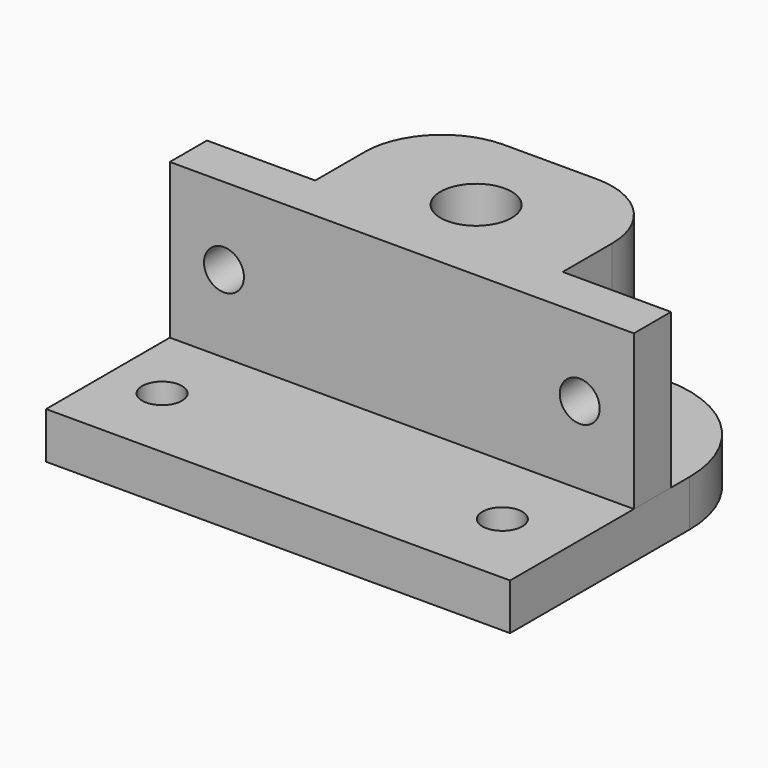
from build123d import *

# Parameters (mm, degrees)
BOX001_W        = 60
BOX001_H        = 24
BOX001_DEPTH    = 20
SKETCH_R        = 4.6
POCKET_DEPTH    = 20.001
SKETCH002_W     = 14
SKETCH002_H     = 20
POCKET002_DEPTH = 18
SKETCH003_R     = 2.58
POCKET003_DEPTH = 6
FILLET_R        = 10
FILLET001_R     = 10
BOX_W           = 60
BOX_H           = 44
BOX_DEPTH       = 6
SKETCH001_R     = 8.1
POCKET001_DEPTH = 9
SKETCH004_R     = 2.58
POCKET004_DEPTH = 6
SKETCH005_R     = 1.54
POCKET005_DEPTH = 5
FILLET002_R     = 15
FILLET003_R     = 15


with BuildPart() as fillet001:
    # Box001 → Box001 (new body)
    with BuildSketch(Plane(origin=(0, 20, 6), x_dir=(1, 0, 0), z_dir=(0, 0, 1))):
        with Locations((30, 12)):
            Rectangle(BOX001_W, BOX001_H)
    extrude(amount=BOX001_DEPTH)

    # Sketch → Pocket (cut, through all)
    with BuildSketch(Plane(origin=(0, 20, 6), x_dir=(1, 0, 0), z_dir=(0, 0, -1))):
        with Locations((30, -12)):
            Circle(SKETCH_R)
    extrude(amount=-POCKET_DEPTH, mode=Mode.SUBTRACT)

    # Sketch002 → Pocket002 (cut)
    with BuildSketch(Plane(origin=(0, 44, 6), x_dir=(-1, 0, 0), z_dir=(0, 1, 0))):
        with Locations((-53, 10)):
            Rectangle(SKETCH002_W, SKETCH002_H)
        with Locations((-7, 10)):
            Rectangle(SKETCH002_W, SKETCH002_H)
    extrude(amount=-POCKET002_DEPTH, mode=Mode.SUBTRACT)

    # Sketch003 → Pocket003 (cut)
    with BuildSketch(Plane(origin=(0, 20, 6), x_dir=(1, 0, 0), z_dir=(0, -1, 0))):
        with Locations((7, 10)):
            Circle(SKETCH003_R)
        with Locations((53, 10)):
            Circle(SKETCH003_R)
    extrude(amount=-POCKET003_DEPTH, mode=Mode.SUBTRACT)

    # Fillet
    fillet_edges = [fillet001.edges().sort_by_distance(p)[0] for p in [
        (14, 44, 16),
    ]]
    fillet(fillet_edges, radius=FILLET_R)

    # Fillet001
    fillet001_edges = [fillet001.edges().sort_by_distance(p)[0] for p in [
        (46, 44, 16),
    ]]
    fillet(fillet001_edges, radius=FILLET001_R)


with BuildPart() as fillet003:
    # Box → Box (new body)
    with BuildSketch(Plane.XY):
        with Locations((30, 22)):
            Rectangle(BOX_W, BOX_H)
    extrude(amount=BOX_DEPTH)

    # Sketch001 → Pocket001 (cut)
    with BuildSketch(Plane(origin=(0, 0, 0), x_dir=(1, 0, 0), z_dir=(0, 0, -1))):
        with Locations((30, -32)):
            Circle(SKETCH001_R)
    extrude(amount=-POCKET001_DEPTH, mode=Mode.SUBTRACT)

    # Sketch004 → Pocket004 (cut)
    with BuildSketch(Plane.XY.offset(6)):
        with Locations((7, 10)):
            Circle(SKETCH004_R)
        with Locations((51, 10)):
            Circle(SKETCH004_R)
    extrude(amount=-POCKET004_DEPTH, mode=Mode.SUBTRACT)

    # Sketch005 → Pocket005 (cut)
    with BuildSketch(Plane(origin=(0, 44, 0), x_dir=(-1, 0, 0), z_dir=(0, 1, 0))):
        with Locations((-30, 3)):
            Circle(SKETCH005_R)
    extrude(amount=-POCKET005_DEPTH, mode=Mode.SUBTRACT)

    # Fillet002
    fillet002_edges = [fillet003.edges().sort_by_distance(p)[0] for p in [
        (60, 44, 3),
    ]]
    fillet(fillet002_edges, radius=FILLET002_R)

    # Fillet003
    fillet003_edges = [fillet003.edges().sort_by_distance(p)[0] for p in [
        (0, 44, 3),
    ]]
    fillet(fillet003_edges, radius=FILLET003_R)


solid = Compound([fillet001.part, fillet003.part])
